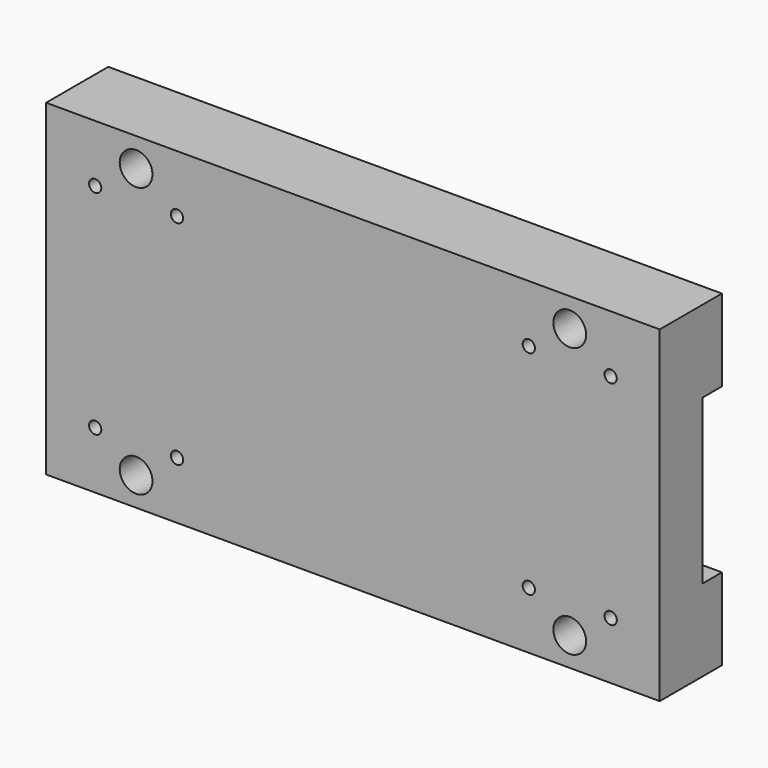
from build123d import *

# Parameters (mm, degrees)
F1_DEPTH = 150
F3_D     = 3
F4_D     = 8


with BuildPart() as f1:
    # F0 (on Right) → F1 (new body)
    with BuildSketch(Plane.YZ):
        Polygon((0, 23.237994), (0, 43.237994), (-19, 43.237994), (-19, -36.762006), (0, -36.762006), (0, -16.762006), (-6, -16.762006), (-6, 23.237994), align=None)
    extrude(amount=F1_DEPTH)

    # F3 (through all)
    with Locations(Plane.XZ.offset(19)):
        with Locations((12, 29.237994), (138, 29.237994), (12, -22.762006), (138, -22.762006), (118, 29.237994), (118, -22.762006), (32, 29.237994), (32, -22.762006)):
            Hole(F3_D / 2)

    # F4 (through all)
    with Locations(Plane.XZ.offset(19)):
        with Locations((128, 36.237994), (22, 36.237994), (22, -29.762006), (128, -29.762006)):
            Hole(F4_D / 2)


solid = f1.part
